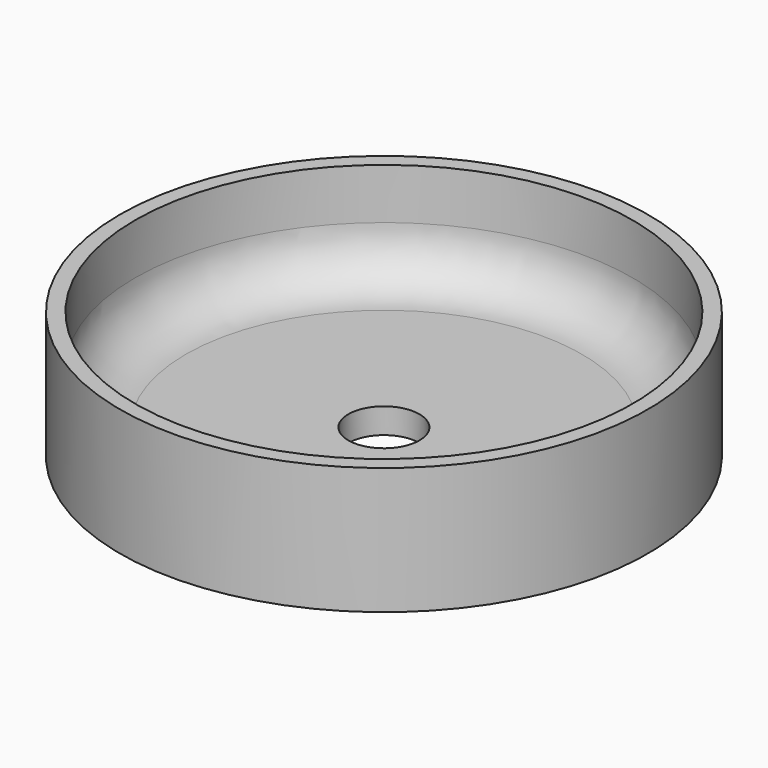
from build123d import *

# Parameters (mm, degrees)
F2_R     = 7
F3_DEPTH = 25


with BuildPart() as f1:
    # F0 (on Front) → F1 (revolve)
    with BuildSketch(Plane.XZ):
        with BuildLine():
            Line((0, 0), (0, 5))
            Line((0, 5), (-39, 5))
            ThreePointArc((-39, 5), (-46.071068, 7.928932), (-49, 15))
            Line((-49, 15), (-49, 25))
            Line((-49, 25), (-52, 25))
            Line((-52, 25), (-52, 0))
            Line((-52, 0), (0, 0))
        make_face()
    revolve(axis=Axis((0, 0, 2.36842), (0, 0, -1)))

    # F2 (on face) → F3 (cut)
    with BuildSketch(Plane.XY.offset(5)):
        Circle(F2_R)
    extrude(amount=-F3_DEPTH, mode=Mode.SUBTRACT)


solid = f1.part
